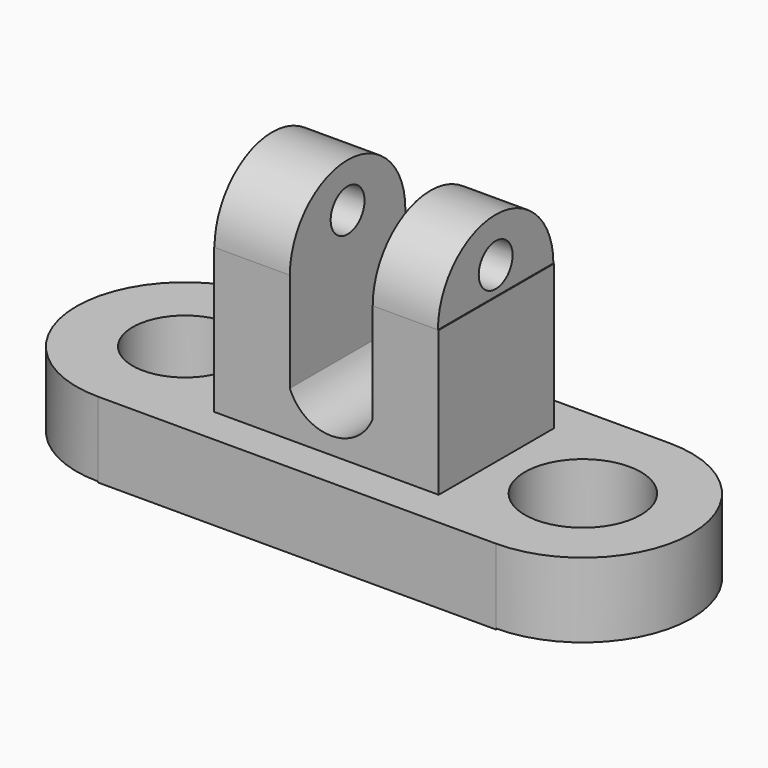
from build123d import *

# Parameters (mm, degrees)
F0_W      = 139.4050866365
F0_H      = 26.4991316944
F1_DEPTH  = 38.1
F3_DEPTH  = 26.162
F5_DEPTH  = 26.162
F6_R      = 20.3401801488
F6_R_2    = 18.3914355894
F7_DEPTH  = 26.5001316944
F8_W      = 78.8159519434
F8_H      = 50.5755208433
F9_DEPTH  = 50.8
F11_DEPTH = 63.3887604216
F12_W     = 29.0339104831
F12_H     = 34.9128932312
F13_DEPTH = 63.3887604216
F15_DEPTH = 22.86
F17_DEPTH = 26.416
F18_R     = 7.4156213221
F19_DEPTH = 146.9803799493


with BuildPart() as f1:
    # F0 (on Front) → F1 (new body, symmetric)
    with BuildSketch(Plane.XZ):
        Rectangle(F0_W, F0_H)
    extrude(amount=F1_DEPTH, both=True)

    # F2 (on face) → F3 (join)
    with BuildSketch(Plane.XY.offset(13.2495658472)):
        with BuildLine():
            Line((69.7025433183, 38.1), (69.7025433183, -38.1))
            ThreePointArc((69.7025433183, -38.1), (107.8025433183, 0), (69.7025433183, 38.1))
        make_face()
    extrude(amount=-F3_DEPTH)

    # F4 (on face) → F5 (join)
    with BuildSketch(Plane.XY.offset(13.2495658472)):
        with BuildLine():
            Line((-69.7025433183, -38.1), (-69.7025433183, 38.1))
            ThreePointArc((-69.7025433183, 38.1), (-107.8025433183, 0), (-69.7025433183, -38.1))
        make_face()
    extrude(amount=-F5_DEPTH)

    # F6 (on face) → F7 (cut, through all)
    with BuildSketch(Plane.XY.offset(13.2495658472)):
        with Locations((69.7025433183, 0)):
            Circle(F6_R)
        with Locations((-69.7025433183, 0)):
            Circle(F6_R_2)
    extrude(amount=-F7_DEPTH, mode=Mode.SUBTRACT)

    # F8 (on face) → F9 (join)
    with BuildSketch(Plane.XY.offset(13.2495658472)):
        Rectangle(F8_W, F8_H)
    extrude(amount=F9_DEPTH)

    # F10 (on face) → F11 (cut, through all)
    with BuildSketch(Plane(origin=(0, 25.2877604216, 0), x_dir=(-1, 0, 0), z_dir=(0, 1, 0))):
        with BuildLine():
            Line((12.7608366311, 29.136672616), (-16.2730738521, 29.136672616))
            ThreePointArc((-16.2730738521, 29.136672616), (-1.7561186105, 19.2027423091), (12.7608366311, 29.136672616))
        make_face()
    extrude(amount=-F11_DEPTH, mode=Mode.SUBTRACT)

    # F12 (on face) → F13 (cut, through all)
    with BuildSketch(Plane(origin=(0, 25.2877604216, 0), x_dir=(-1, 0, 0), z_dir=(0, 1, 0))):
        with Locations((-1.7561186105, 46.5931192316)):
            Rectangle(F12_W, F12_H)
    extrude(amount=-F13_DEPTH, mode=Mode.SUBTRACT)

    # F14 (on face) → F15 (join)
    with BuildSketch(Plane(origin=(16.2730738521, 0, 0), x_dir=(0, -1, 0), z_dir=(-1, 0, 0))):
        with BuildLine():
            Line((-25.2877604216, 64.0495658472), (25.2877604216, 64.0495658472))
            ThreePointArc((25.2877604216, 64.0495658472), (0, 89.3373262689), (-25.2877604216, 64.0495658472))
        make_face()
    extrude(amount=-F15_DEPTH)

    # F16 (on face) → F17 (join)
    with BuildSketch(Plane.YZ.offset(-12.7608366311)):
        with BuildLine():
            Line((-25.2877604216, 64.0495658472), (25.2877604216, 64.0495658472))
            ThreePointArc((25.2877604216, 64.0495658472), (0, 89.3373262689), (-25.2877604216, 64.0495658472))
        make_face()
    extrude(amount=-F17_DEPTH)

    # F18 (on face) → F19 (cut, through all)
    with BuildSketch(Plane(origin=(-39.1768366311, 0, 0), x_dir=(0, -1, 0), z_dir=(-1, 0, 0))):
        with Locations((0, 73.7898647785)):
            Circle(F18_R)
    extrude(amount=-F19_DEPTH, mode=Mode.SUBTRACT)


solid = f1.part
